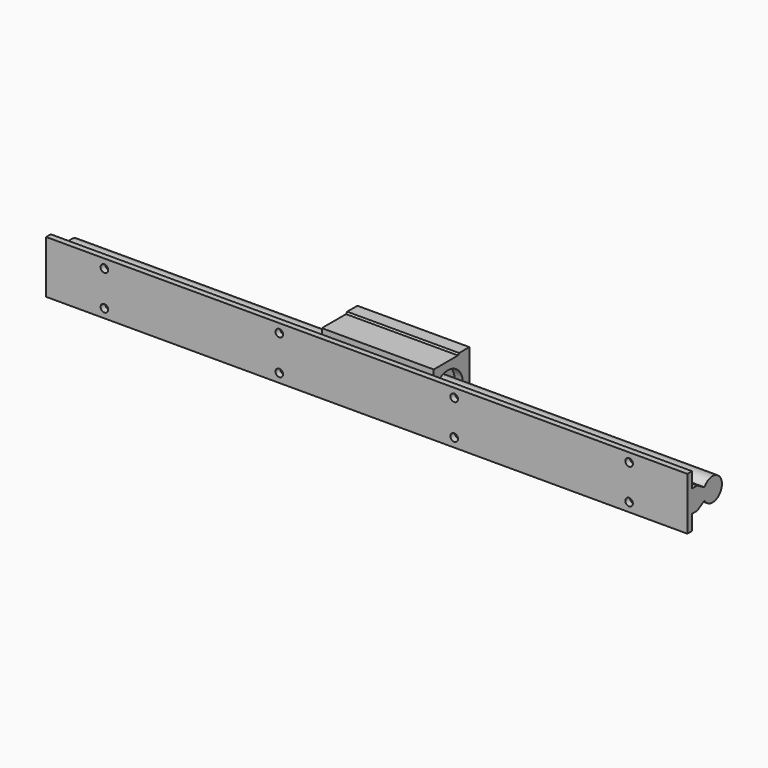
from build123d import *

# Parameters (mm, degrees)
F1_DEPTH = 48
F3_DEPTH = 41
F4_DEPTH = 275
F5_R     = 3
F6_DEPTH = 12
F7_R     = 3.25
F8_DEPTH = 25


with BuildPart() as f1:
    # F0 (on Right) → F1 (new body, symmetric)
    with BuildSketch(Plane.YZ):
        with BuildLine():
            Line((23, -24.175), (23, 0))
            Line((23, 0), (23, 24.175))
            Line((23, 24.175), (12, 24.175))
            Line((12, 24.175), (10.8, 22.8))
            Line((10.8, 22.8), (-15.2, 22.8))
            Line((-15.2, 22.8), (-15.2, 8.7757240917))
            Line((-15.2, 8.7757240917), (-13.8564064606, 8))
            ThreePointArc((-13.8564064606, 8), (4.1411047216, 15.4548132206), (16, 0))
            ThreePointArc((16, 0), (4.1411047216, -15.4548132206), (-13.8564064606, -8))
            Line((-13.8564064606, -8), (-15.2, -8.7757240917))
            Line((-15.2, -8.7757240917), (-15.2, -22.8))
            Line((-15.2, -22.8), (10.8, -22.8))
            Line((10.8, -22.8), (12, -24.175))
            Line((12, -24.175), (23, -24.175))
        make_face()
    extrude(amount=F1_DEPTH, both=True)

    # F0 (on Right) → F3 (join, symmetric)
    with BuildSketch(Plane.YZ):
        with BuildLine():
            Line((-8.6602540378, -5), (-13.8564064606, -8))
            ThreePointArc((-13.8564064606, -8), (4.1411047216, -15.4548132206), (16, 0))
            ThreePointArc((16, 0), (4.1411047216, 15.4548132206), (-13.8564064606, 8))
            Line((-13.8564064606, 8), (-8.6602540378, 5))
            ThreePointArc((-8.6602540378, 5), (2.588190451, 9.6592582629), (10, 0))
            ThreePointArc((10, 0), (2.588190451, -9.6592582629), (-8.6602540378, -5))
        make_face()
    extrude(amount=F3_DEPTH, both=True)

    # F5 (on face) → F6 (cut)
    with BuildSketch(Plane(origin=(0, 23, 0), x_dir=(-1, 0, 0), z_dir=(0, 1, 0))):
        with Locations((-34.625, 17)):
            Circle(F5_R)
        with Locations((34.625, 17)):
            Circle(F5_R)
        with Locations((34.625, -17)):
            Circle(F5_R)
        with Locations((-34.625, -17)):
            Circle(F5_R)
    extrude(amount=-F6_DEPTH, mode=Mode.SUBTRACT)


with BuildPart() as f4:
    # F0 (on Right) → F4 (new body, symmetric)
    with BuildSketch(Plane.YZ):
        with BuildLine():
            Line((-16.5410852123, -9.55), (-15.2, -8.7757240917))
            Line((-15.2, -8.7757240917), (-13.8564064606, -8))
            Line((-13.8564064606, -8), (-8.6602540378, -5))
            ThreePointArc((-8.6602540378, -5), (2.588190451, -9.6592582629), (10, 0))
            ThreePointArc((10, 0), (2.588190451, 9.6592582629), (-8.6602540378, 5))
            Line((-8.6602540378, 5), (-13.8564064606, 8))
            Line((-13.8564064606, 8), (-15.2, 8.7757240917))
            Line((-15.2, 8.7757240917), (-16.5410852123, 9.55))
            Line((-16.5410852123, 9.55), (-22, 9.55))
            Line((-22, 9.55), (-22, 12.7017059222))
            Line((-22, 12.7017059222), (-22, 22.6))
            Line((-22, 22.6), (-27, 22.6))
            Line((-27, 22.6), (-27, 0))
            Line((-27, 0), (-27, -22.6))
            Line((-27, -22.6), (-22, -22.6))
            Line((-22, -22.6), (-22, -12.7017059222))
            Line((-22, -12.7017059222), (-22, -9.55))
            Line((-22, -9.55), (-16.5410852123, -9.55))
        make_face()
    extrude(amount=F4_DEPTH, both=True)

    # F7 (on face) → F8 (cut)
    with BuildSketch(Plane(origin=(0, -22, 0), x_dir=(-1, 0, 0), z_dir=(0, 1, 0))):
        with Locations((-225, 15)):
            Circle(F7_R)
        with Locations((-75, 15)):
            Circle(F7_R)
        with Locations((-225, -15)):
            Circle(F7_R)
        with Locations((-75, -15)):
            Circle(F7_R)
        with Locations((75, 15)):
            Circle(F7_R)
        with Locations((225, 15)):
            Circle(F7_R)
        with Locations((225, -15)):
            Circle(F7_R)
        with Locations((75, -15)):
            Circle(F7_R)
    extrude(amount=-F8_DEPTH, mode=Mode.SUBTRACT)


solid = Compound([f1.part, f4.part])
